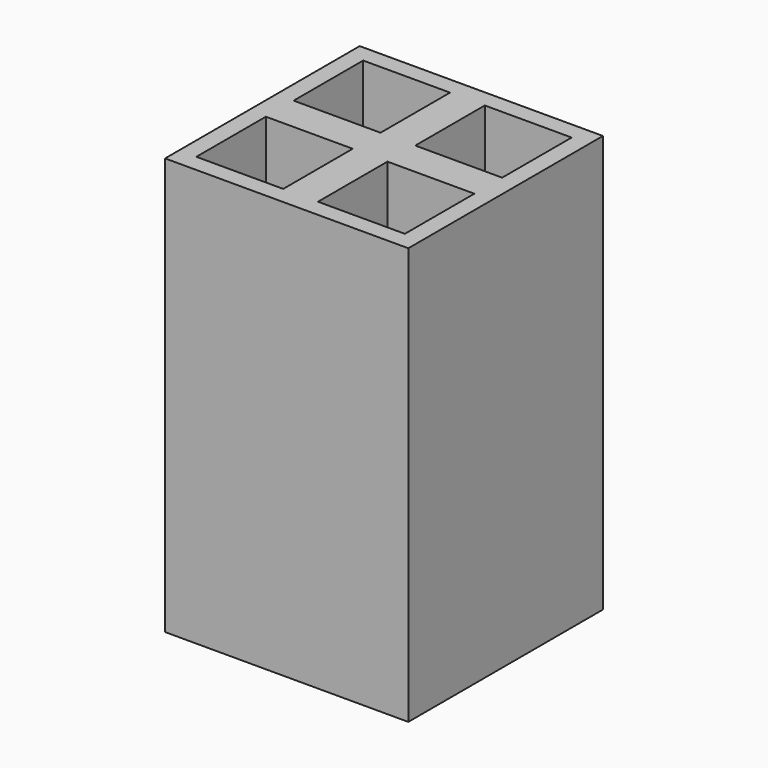
from build123d import *

# Parameters (mm, degrees)
SKETCH_W   = 140
SKETCH_H   = 140
SKETCH_W_2 = 50
SKETCH_H_2 = 50
PAD_DEPTH  = 240


with BuildPart() as part:
    # Sketch → Pad (new body)
    with BuildSketch(Plane.XY):
        Rectangle(SKETCH_W, SKETCH_H)
        with Locations((-35, 35)):
            Rectangle(SKETCH_W_2, SKETCH_H_2, mode=Mode.SUBTRACT)
        with Locations((-35, -35)):
            Rectangle(SKETCH_W_2, SKETCH_H_2, mode=Mode.SUBTRACT)
        with Locations((35, 35)):
            Rectangle(SKETCH_W_2, SKETCH_H_2, mode=Mode.SUBTRACT)
        with Locations((35, -35)):
            Rectangle(SKETCH_W_2, SKETCH_H_2, mode=Mode.SUBTRACT)
    extrude(amount=PAD_DEPTH)


solid = part.part
